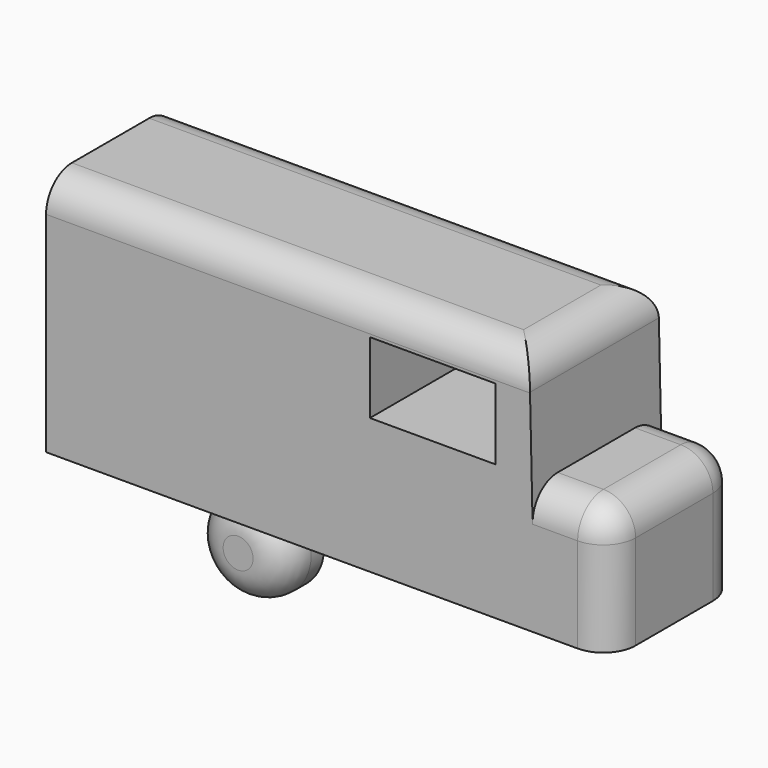
from build123d import *

# Parameters (mm, degrees)
F1_DEPTH = 25.4
F2_W     = 19.809905
F2_H     = 11.225612
F3_DEPTH = 25.4
F4_R     = 7.441566
F5_DEPTH = 7.62
F6_R     = 5.08
F7_R     = 5.08
F8_R     = 5.08


with BuildPart() as f1:
    # F0 (on Front) → F1 (new body)
    with BuildSketch(Plane.XZ):
        Polygon((25.536364, 17.828913), (25.132249, 35.898899), (-51.067751, 35.898899), (-51.067751, -2.201101), (37.832249, -2.201101), (37.832249, 17.828913), align=None)
    extrude(amount=F1_DEPTH)

    # F2 (on face) → F3 (cut)
    with BuildSketch(Plane.XZ.offset(25.4)):
        with Locations((9.904953, 24.76238)):
            Rectangle(F2_W, F2_H)
    extrude(amount=-F3_DEPTH, mode=Mode.SUBTRACT)

    # F7
    f7_edges = [f1.edges().sort_by_distance(p)[0] for p in [
        (37.832249, -12.7, 17.828913),
        (-12.967751, 0, 35.898899),
        (25.132249, -12.7, 35.898899),
        (-12.967751, -25.4, 35.898899),
    ]]
    fillet(f7_edges, radius=F7_R)

    # F8
    f8_edges = [f1.edges().sort_by_distance(p)[0] for p in [
        (37.832249, 0, 5.273906),
        (37.832249, -25.4, 5.273906),
    ]]
    fillet(f8_edges, radius=F8_R)


with BuildPart() as f5:
    # F4 (on Front) → F5 (new body)
    with BuildSketch(Plane.XZ):
        with Locations((-35.007972, -18.221185)):
            Circle(F4_R)
    extrude(amount=F5_DEPTH)

    # F6
    f6_edges = [f5.edges().sort_by_distance(p)[0] for p in [
        (-42.449538, -7.62, -18.221185),
    ]]
    fillet(f6_edges, radius=F6_R)


solid = Compound([f1.part, f5.part])
